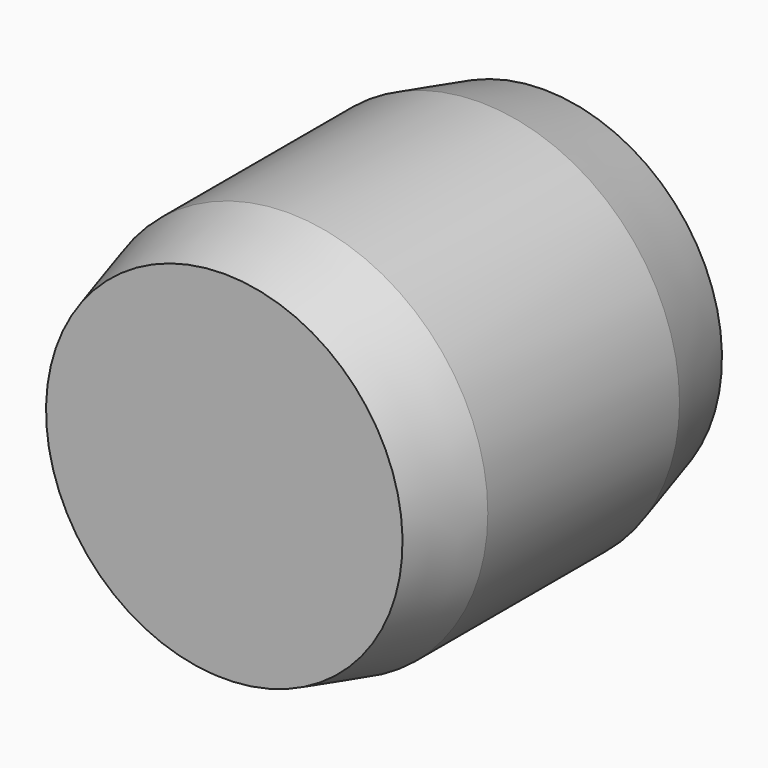
from build123d import *


with BuildPart() as part:
    # Sketch → Revolution (revolve)
    with BuildSketch(Plane.YZ):
        Polygon((0, 0), (0, 4.464102), (2, 5), (8, 5), (10, 4.464102), (10, 0), align=None)
    revolve(axis=Axis((0, 0, 0), (0, 1, 0)))


solid = part.part
